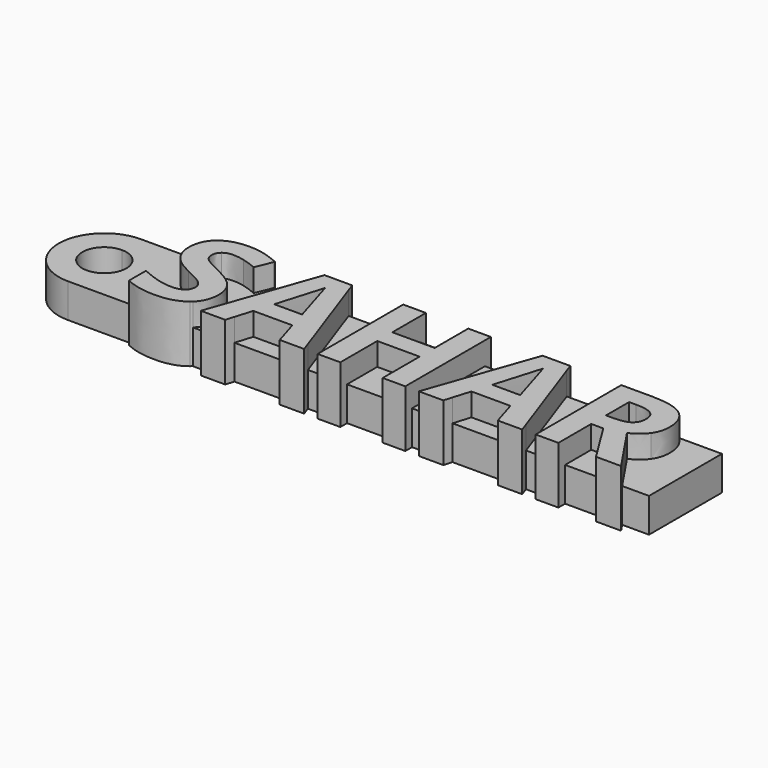
from build123d import *

# Parameters (mm, degrees)
F1_DEPTH = 3
F0_W     = 3.7177148437
F0_H     = 3.0258723958
F0_H_2   = 3.3176996528
F0_W_2   = 1.9914127604
F0_H_3   = 0.735
F0_H_4   = 0.6548502604
F0_W_3   = 1.9852473958
F2_DEPTH = 5


with BuildPart() as f1:
    # F0 (on Top) → F1 (new body)
    with BuildSketch(Plane.XY):
        Polygon((-4.996000434, 4), (-9.2600765244, 4), (-6.4370599594, -4), (-4.996000434, -4), align=None)
    extrude(amount=F1_DEPTH)



with BuildPart() as f1b:
    # F0 (on Top) → F1, piece 2 (new body)
    with BuildSketch(Plane.XY):
        with Locations((-1.1457302517, 2.4870638021)):
            Rectangle(F0_W, F0_H)
    extrude(amount=F1_DEPTH)


with BuildPart() as f1c:
    # F0 (on Top) → F1, piece 3 (new body)
    with BuildSketch(Plane.XY):
        with Locations((-1.1457302517, -2.3411501736)):
            Rectangle(F0_W, F0_H_2)
    extrude(amount=F1_DEPTH)


with BuildPart() as f1d:
    # F0 (on Top) → F1, piece 4 (new body)
    with BuildSketch(Plane.XY):
        Polygon((6.9571927428, 4), (2.698374566, 4), (2.698374566, -4), (4.1446382528, -4), align=None)
    extrude(amount=F1_DEPTH)


with BuildPart() as f1e:
    # F0 (on Top) → F1, piece 5 (new body)
    with BuildSketch(Plane.XY):
        with BuildLine():
            Line((7.2134765625, -0.8302690972), (9.6590711806, -0.8302690972))
            add(Edge.make_bspline(
                [(9.6590711806, -0.8302690972), (8.7157703993, 2.2072005208), (8.5965733507, 2.6058940972)],
                knots=[0, 0, 0, 1, 1, 1], degree=2))
            add(Edge.make_bspline(
                [(8.5965733507, 2.6058940972), (8.4773763021, 3.0045876736), (8.4259982639, 3.2347612847)],
                knots=[0, 0, 0, 1, 1, 1], degree=2))
            add(Edge.make_bspline(
                [(8.4259982639, 3.2347612847), (8.2143207465, 2.4127126736), (7.2134765625, -0.8302690972)],
                knots=[0, 0, 0, 1, 1, 1], degree=2))
        make_face()
    extrude(amount=F1_DEPTH)


with BuildPart() as f1f:
    # F0 (on Top) → F1, piece 6 (new body)
    with BuildSketch(Plane.XY):
        Polygon((6.7120269097, -2.4990277778), (6.2553892208, -4), (10.5924970639, -4), (10.135859375, -2.4990277778), align=None)
    extrude(amount=F1_DEPTH)


with BuildPart() as f1g:
    # F0 (on Top) → F1, piece 7 (new body)
    with BuildSketch(Plane.XY):
        Polygon((14.1433463542, 4), (9.8792702638, 4), (12.7022868288, -4), (14.1433463542, -4), align=None)
    extrude(amount=F1_DEPTH)


with BuildPart() as f1h:
    # F0 (on Top) → F1, piece 8 (new body)
    with BuildSketch(Plane.XY):
        with BuildLine():
            Line((16.1347591146, 3.0230837674), (16.1347591146, 0.4870638021))
            Line((16.1347591146, 0.4870638021), (16.7759570313, 0.4870638021))
            add(Edge.make_bspline(
                [(16.7759570313, 0.4870638021), (17.721312934, 0.4870638021), (18.1703569878, 0.8014973958)],
                knots=[0, 0, 0, 1, 1, 1], degree=2))
            add(Edge.make_bspline(
                [(18.1703569878, 0.8014973958), (18.6194010417, 1.1159309896), (18.6194010417, 1.7900108507)],
                knots=[0, 0, 0, 1, 1, 1], degree=2))
            add(Edge.make_bspline(
                [(18.6194010417, 1.7900108507), (18.6194010417, 2.4579253472), (18.1600813802, 2.7405045573)],
                knots=[0, 0, 0, 1, 1, 1], degree=2))
            add(Edge.make_bspline(
                [(18.1600813802, 2.7405045573), (17.7007617188, 3.0230837674), (16.7389648438, 3.0230837674)],
                knots=[0, 0, 0, 1, 1, 1], degree=2))
            Line((16.7389648438, 3.0230837674), (16.1347591146, 3.0230837674))
        make_face()
    extrude(amount=F1_DEPTH)


with BuildPart() as f1i:
    # F0 (on Top) → F1, piece 9 (new body)
    with BuildSketch(Plane.XY):
        Polygon((16.1347591146, -1.1323719618), (16.1347591146, -4), (18.9778484639, -4), (17.1931467014, -1.1323719618), align=None)
    extrude(amount=F1_DEPTH)


with BuildPart() as f1j:
    # F0 (on Top) → F1, piece 10 (new body)
    with BuildSketch(Plane.XY):
        with BuildLine():
            Line((23.5, 4), (19.6548150577, 4))
            add(Edge.make_bspline(
                [(19.6548150577, 4), (19.683720368, 3.9794058599), (19.7116981337, 3.9581640625)],
                knots=[0.9695102365, 0.9695102365, 0.9695102365, 1, 1, 1], degree=2))
            add(Edge.make_bspline(
                [(19.7116981337, 3.9581640625), (20.6293098958, 3.2614778646), (20.6293098958, 1.8413888889)],
                knots=[0, 0, 0, 1, 1, 1], degree=2))
            add(Edge.make_bspline(
                [(20.6293098958, 1.8413888889), (20.6293098958, 1.0131749132), (20.1741004774, 0.3678667535)],
                knots=[0, 0, 0, 1, 1, 1], degree=2))
            add(Edge.make_bspline(
                [(20.1741004774, 0.3678667535), (19.718891059, -0.2774414063), (18.8824565972, -0.6432530382)],
                knots=[0, 0, 0, 1, 1, 1], degree=2))
            add(Edge.make_bspline(
                [(18.8824565972, -0.6432530382), (20.3815343391, -2.8817014881), (21.1413747251, -4)],
                knots=[0, 0, 0, 0.7068169408, 0.7068169408, 0.7068169408], degree=2))
            Line((21.1413747251, -4), (23.5, -4))
            Line((23.5, -4), (23.5, 4))
        make_face()
    extrude(amount=F1_DEPTH)


with BuildPart() as f1k:
    # F0 (on Top) → F1, piece 11 (new body)
    with BuildSketch(Plane.XY):
        Polygon((-12.4273198785, -2.4990277778), (-12.8839575674, -4), (-8.5468497243, -4), (-9.0034874132, -2.4990277778), align=None)
    extrude(amount=F1_DEPTH)


with BuildPart() as f1l:
    # F0 (on Top) → F1, piece 12 (new body)
    with BuildSketch(Plane.XY):
        with BuildLine():
            Line((-11.9258702257, -0.8302690972), (-9.4802756076, -0.8302690972))
            add(Edge.make_bspline(
                [(-9.4802756076, -0.8302690972), (-10.4235763889, 2.2072005208), (-10.5427734375, 2.6058940972)],
                knots=[0, 0, 0, 1, 1, 1], degree=2))
            add(Edge.make_bspline(
                [(-10.5427734375, 2.6058940972), (-10.6619704861, 3.0045876736), (-10.7133485243, 3.2347612847)],
                knots=[0, 0, 0, 1, 1, 1], degree=2))
            add(Edge.make_bspline(
                [(-10.7133485243, 3.2347612847), (-10.9250260417, 2.4127126736), (-11.9258702257, -0.8302690972)],
                knots=[0, 0, 0, 1, 1, 1], degree=2))
        make_face()
    extrude(amount=F1_DEPTH)


with BuildPart() as f1m:
    # F0 (on Top) → F1, piece 13 (new body)
    with BuildSketch(Plane.XY):
        with BuildLine():
            Line((-12.1821540454, 4), (-15.8715417714, 4))
            Line((-15.8715417714, 4), (-16.459468316, 2.5791775174))
            add(Edge.make_bspline(
                [(-16.459468316, 2.5791775174), (-17.2116427951, 2.8874457465), (-17.7028168403, 3.0097254774)],
                knots=[0, 0, 0, 1, 1, 1], degree=2))
            add(Edge.make_bspline(
                [(-17.7028168403, 3.0097254774), (-18.1939908854, 3.1320052083), (-18.6687239583, 3.1320052083)],
                knots=[0, 0, 0, 1, 1, 1], degree=2))
            add(Edge.make_bspline(
                [(-18.6687239583, 3.1320052083), (-19.2338823785, 3.1320052083), (-19.5359852431, 2.8689496528)],
                knots=[0, 0, 0, 1, 1, 1], degree=2))
            add(Edge.make_bspline(
                [(-19.5359852431, 2.8689496528), (-19.8380881076, 2.6058940972), (-19.8380881076, 2.1825390625)],
                knots=[0, 0, 0, 1, 1, 1], degree=2))
            add(Edge.make_bspline(
                [(-19.8380881076, 2.1825390625), (-19.8380881076, 1.9194835069), (-19.7158083767, 1.723219401)],
                knots=[0, 0, 0, 1, 1, 1], degree=2))
            add(Edge.make_bspline(
                [(-19.7158083767, 1.723219401), (-19.5935286458, 1.5269552951), (-19.327390408, 1.3440494792)],
                knots=[0, 0, 0, 1, 1, 1], degree=2))
            add(Edge.make_bspline(
                [(-19.327390408, 1.3440494792), (-19.0612521701, 1.1611436632), (-18.0665733507, 0.6864105903)],
                knots=[0, 0, 0, 1, 1, 1], degree=2))
            add(Edge.make_bspline(
                [(-18.0665733507, 0.6864105903), (-16.7492404514, 0.0554882812), (-16.2611490885, -0.5764615885)],
                knots=[0, 0, 0, 1, 1, 1], degree=2))
            add(Edge.make_bspline(
                [(-16.2611490885, -0.5764615885), (-15.7730577257, -1.2084114583), (-15.7730577257, -2.1270507813)],
                knots=[0, 0, 0, 1, 1, 1], degree=2))
            add(Edge.make_bspline(
                [(-15.7730577257, -2.1270507813), (-15.7730577257, -3.2882865932), (-16.5359614646, -4)],
                knots=[0, 0, 0, 0.9128349573, 0.9128349573, 0.9128349573], degree=2))
            Line((-16.5359614646, -4), (-14.9947085354, -4))
            Line((-14.9947085354, -4), (-12.1821540454, 4))
        make_face()
    extrude(amount=F1_DEPTH)


with BuildPart() as f1n:
    # F0 (on Top) → F1, piece 14 (new body)
    with BuildSketch(Plane.XY):
        with BuildLine():
            Line((-21.0260885442, 4), (-23.5, 4))
            Line((-23.5, 4), (-23.5, -4))
            Line((-23.5, -4), (-21.8932096354, -4))
            Line((-21.8932096354, -4), (-21.8932096354, -2.4476497396))
            add(Edge.make_bspline(
                [(-21.8932096354, -2.4476497396), (-20.9437434896, -2.8730598958), (-20.2850770399, -3.0456901042)],
                knots=[0, 0, 0, 1, 1, 1], degree=2))
            add(Edge.make_bspline(
                [(-20.2850770399, -3.0456901042), (-19.6264105903, -3.2183203125), (-19.0797482639, -3.2183203125)],
                knots=[0, 0, 0, 1, 1, 1], degree=2))
            add(Edge.make_bspline(
                [(-19.0797482639, -3.2183203125), (-18.4262196181, -3.2183203125), (-18.0758213976, -2.9686230469)],
                knots=[0, 0, 0, 1, 1, 1], degree=2))
            add(Edge.make_bspline(
                [(-18.0758213976, -2.9686230469), (-17.7254231771, -2.7189257813), (-17.7254231771, -2.2236414931)],
                knots=[0, 0, 0, 1, 1, 1], degree=2))
            add(Edge.make_bspline(
                [(-17.7254231771, -2.2236414931), (-17.7254231771, -1.9482552083), (-17.8795572917, -1.7324674479)],
                knots=[0, 0, 0, 1, 1, 1], degree=2))
            add(Edge.make_bspline(
                [(-17.8795572917, -1.7324674479), (-18.0336914062, -1.5166796875), (-18.3327115885, -1.3183604601)],
                knots=[0, 0, 0, 1, 1, 1], degree=2))
            add(Edge.make_bspline(
                [(-18.3327115885, -1.3183604601), (-18.6317317708, -1.1200412326), (-19.5503710938, -0.6823003472)],
                knots=[0, 0, 0, 1, 1, 1], degree=2))
            add(Edge.make_bspline(
                [(-19.5503710938, -0.6823003472), (-20.4094118924, -0.2774414063), (-20.8399598524, 0.0945355903)],
                knots=[0, 0, 0, 1, 1, 1], degree=2))
            add(Edge.make_bspline(
                [(-20.8399598524, 0.0945355903), (-21.2705078125, 0.4665125868), (-21.5273980035, 0.961796875)],
                knots=[0, 0, 0, 1, 1, 1], degree=2))
            add(Edge.make_bspline(
                [(-21.5273980035, 0.961796875), (-21.7842881944, 1.4570811632), (-21.7842881944, 2.1167751736)],
                knots=[0, 0, 0, 1, 1, 1], degree=2))
            add(Edge.make_bspline(
                [(-21.7842881944, 2.1167751736), (-21.7842881944, 3.2986686195), (-21.0260885442, 4)],
                knots=[0, 0, 0, 0.9474408909, 0.9474408909, 0.9474408909], degree=2))
        make_face()
        with BuildLine():
            Line((-23.5, -4), (-23.5, 4))
            Line((-23.5, 4), (-27.5, 4))
            Line((-27.5, 4), (-27.5, 1.9329889635))
            ThreePointArc((-27.5, 1.9329889635), (-26.1331703959, 1.3668296041), (-25.5670110365, 0))
            ThreePointArc((-25.5670110365, 0), (-26.1331703959, -1.3668296041), (-27.5, -1.9329889635))
            Line((-27.5, -1.9329889635), (-27.5, -4))
            Line((-27.5, -4), (-23.5, -4))
        make_face()
        with BuildLine():
            Line((-27.5, 1.9329889635), (-27.5, 4))
            ThreePointArc((-27.5, 4), (-30.3284271247, 2.8284271247), (-31.5, 0))
            ThreePointArc((-31.5, 0), (-30.3284271247, -2.8284271247), (-27.5, -4))
            Line((-27.5, -4), (-27.5, -1.9329889635))
            ThreePointArc((-27.5, -1.9329889635), (-29.4329889635, 0), (-27.5, 1.9329889635))
        make_face()
    extrude(amount=F1_DEPTH)


with BuildPart() as f1_1:
    add(f1.part)

    add(f1b.part)  # F2 merges F1b

    add(f1c.part)  # F2 merges F1c

    add(f1d.part)  # F2 merges F1d

    add(f1e.part)  # F2 merges F1e

    add(f1f.part)  # F2 merges F1f

    add(f1g.part)  # F2 merges F1g

    add(f1h.part)  # F2 merges F1h

    add(f1i.part)  # F2 merges F1i

    add(f1j.part)  # F2 merges F1j

    add(f1k.part)  # F2 merges F1k

    add(f1l.part)  # F2 merges F1l

    add(f1m.part)  # F2 merges F1m

    add(f1n.part)  # F2 merges F1n
    # F0 (on Top) → F2 (join)
    with BuildSketch(Plane.XY):
        with BuildLine():
            Line((-15.8715417714, 4), (-21.0260885442, 4))
            add(Edge.make_bspline(
                [(-21.7842881944, 2.1167751736), (-21.7842881944, 3.2986686195), (-21.0260885442, 4)],
                knots=[0, 0, 0, 0.9474408909, 0.9474408909, 0.9474408909], degree=2))
            add(Edge.make_bspline(
                [(-21.5273980035, 0.961796875), (-21.7842881944, 1.4570811632), (-21.7842881944, 2.1167751736)],
                knots=[0, 0, 0, 1, 1, 1], degree=2))
            add(Edge.make_bspline(
                [(-20.8399598524, 0.0945355903), (-21.2705078125, 0.4665125868), (-21.5273980035, 0.961796875)],
                knots=[0, 0, 0, 1, 1, 1], degree=2))
            add(Edge.make_bspline(
                [(-19.5503710938, -0.6823003472), (-20.4094118924, -0.2774414063), (-20.8399598524, 0.0945355903)],
                knots=[0, 0, 0, 1, 1, 1], degree=2))
            add(Edge.make_bspline(
                [(-18.3327115885, -1.3183604601), (-18.6317317708, -1.1200412326), (-19.5503710938, -0.6823003472)],
                knots=[0, 0, 0, 1, 1, 1], degree=2))
            add(Edge.make_bspline(
                [(-17.8795572917, -1.7324674479), (-18.0336914062, -1.5166796875), (-18.3327115885, -1.3183604601)],
                knots=[0, 0, 0, 1, 1, 1], degree=2))
            add(Edge.make_bspline(
                [(-17.7254231771, -2.2236414931), (-17.7254231771, -1.9482552083), (-17.8795572917, -1.7324674479)],
                knots=[0, 0, 0, 1, 1, 1], degree=2))
            add(Edge.make_bspline(
                [(-18.0758213976, -2.9686230469), (-17.7254231771, -2.7189257813), (-17.7254231771, -2.2236414931)],
                knots=[0, 0, 0, 1, 1, 1], degree=2))
            add(Edge.make_bspline(
                [(-19.0797482639, -3.2183203125), (-18.4262196181, -3.2183203125), (-18.0758213976, -2.9686230469)],
                knots=[0, 0, 0, 1, 1, 1], degree=2))
            add(Edge.make_bspline(
                [(-20.2850770399, -3.0456901042), (-19.6264105903, -3.2183203125), (-19.0797482639, -3.2183203125)],
                knots=[0, 0, 0, 1, 1, 1], degree=2))
            add(Edge.make_bspline(
                [(-21.8932096354, -2.4476497396), (-20.9437434896, -2.8730598958), (-20.2850770399, -3.0456901042)],
                knots=[0, 0, 0, 1, 1, 1], degree=2))
            Line((-21.8932096354, -2.4476497396), (-21.8932096354, -4))
            Line((-21.8932096354, -4), (-16.5359614646, -4))
            add(Edge.make_bspline(
                [(-15.7730577257, -2.1270507813), (-15.7730577257, -3.2882865932), (-16.5359614646, -4)],
                knots=[0, 0, 0, 0.9128349573, 0.9128349573, 0.9128349573], degree=2))
            add(Edge.make_bspline(
                [(-16.2611490885, -0.5764615885), (-15.7730577257, -1.2084114583), (-15.7730577257, -2.1270507813)],
                knots=[0, 0, 0, 1, 1, 1], degree=2))
            add(Edge.make_bspline(
                [(-18.0665733507, 0.6864105903), (-16.7492404514, 0.0554882812), (-16.2611490885, -0.5764615885)],
                knots=[0, 0, 0, 1, 1, 1], degree=2))
            add(Edge.make_bspline(
                [(-19.327390408, 1.3440494792), (-19.0612521701, 1.1611436632), (-18.0665733507, 0.6864105903)],
                knots=[0, 0, 0, 1, 1, 1], degree=2))
            add(Edge.make_bspline(
                [(-19.7158083767, 1.723219401), (-19.5935286458, 1.5269552951), (-19.327390408, 1.3440494792)],
                knots=[0, 0, 0, 1, 1, 1], degree=2))
            add(Edge.make_bspline(
                [(-19.8380881076, 2.1825390625), (-19.8380881076, 1.9194835069), (-19.7158083767, 1.723219401)],
                knots=[0, 0, 0, 1, 1, 1], degree=2))
            add(Edge.make_bspline(
                [(-19.5359852431, 2.8689496528), (-19.8380881076, 2.6058940972), (-19.8380881076, 2.1825390625)],
                knots=[0, 0, 0, 1, 1, 1], degree=2))
            add(Edge.make_bspline(
                [(-18.6687239583, 3.1320052083), (-19.2338823785, 3.1320052083), (-19.5359852431, 2.8689496528)],
                knots=[0, 0, 0, 1, 1, 1], degree=2))
            add(Edge.make_bspline(
                [(-17.7028168403, 3.0097254774), (-18.1939908854, 3.1320052083), (-18.6687239583, 3.1320052083)],
                knots=[0, 0, 0, 1, 1, 1], degree=2))
            add(Edge.make_bspline(
                [(-16.459468316, 2.5791775174), (-17.2116427951, 2.8874457465), (-17.7028168403, 3.0097254774)],
                knots=[0, 0, 0, 1, 1, 1], degree=2))
            Line((-16.459468316, 2.5791775174), (-15.8715417714, 4))
        make_face()
        with BuildLine():
            add(Edge.make_bspline(
                [(-21.0260885442, 4), (-20.9840275581, 4.0389062293), (-20.9396332465, 4.0763335503)],
                knots=[0.9474408909, 0.9474408909, 0.9474408909, 1, 1, 1], degree=2))
            Line((-21.0260885442, 4), (-15.8715417714, 4))
            Line((-15.8715417714, 4), (-15.8182703993, 4.1287391493))
            add(Edge.make_bspline(
                [(-17.2085601128, 4.6158029514), (-16.5437282986, 4.4431727431), (-15.8182703993, 4.1287391493)],
                knots=[0, 0, 0, 1, 1, 1], degree=2))
            add(Edge.make_bspline(
                [(-18.605015191, 4.7884331597), (-17.8733919271, 4.7884331597), (-17.2085601128, 4.6158029514)],
                knots=[0, 0, 0, 1, 1, 1], degree=2))
            add(Edge.make_bspline(
                [(-20.9396332465, 4.0763335503), (-20.0949782986, 4.7884331597), (-18.605015191, 4.7884331597)],
                knots=[0, 0, 0, 1, 1, 1], degree=2))
        make_face()
        with BuildLine():
            Line((-16.5359614646, -4), (-21.8932096354, -4))
            Line((-21.8932096354, -4), (-21.8932096354, -4.2972591146))
            add(Edge.make_bspline(
                [(-19.2338823785, -4.8644726563), (-20.7382313368, -4.8644726563), (-21.8932096354, -4.2972591146)],
                knots=[0, 0, 0, 1, 1, 1], degree=2))
            add(Edge.make_bspline(
                [(-16.6886143663, -4.1318218316), (-17.6041710069, -4.8644726563), (-19.2338823785, -4.8644726563)],
                knots=[0, 0, 0, 1, 1, 1], degree=2))
            add(Edge.make_bspline(
                [(-16.5359614646, -4), (-16.6088098326, -4.0679602912), (-16.6886143663, -4.1318218316)],
                knots=[0.9128349573, 0.9128349573, 0.9128349573, 1, 1, 1], degree=2))
        make_face()
        Polygon((-12.8839575674, -4), (-14.9947085354, -4), (-15.2531119792, -4.735), (-13.1075651042, -4.735), align=None)
        Polygon((-9.2600765244, 4), (-12.1821540454, 4), (-14.9947085354, -4), (-12.8839575674, -4), (-12.4273198785, -2.4990277778), (-9.0034874132, -2.4990277778), (-8.5468497243, -4), (-6.4370599594, -4), align=None)
        with BuildLine():
            add(Edge.make_bspline(
                [(-9.4802756076, -0.8302690972), (-10.4235763889, 2.2072005208), (-10.5427734375, 2.6058940972)],
                knots=[0, 0, 0, 1, 1, 1], degree=2))
            Line((-9.4802756076, -0.8302690972), (-11.9258702257, -0.8302690972))
            add(Edge.make_bspline(
                [(-10.7133485243, 3.2347612847), (-10.9250260417, 2.4127126736), (-11.9258702257, -0.8302690972)],
                knots=[0, 0, 0, 1, 1, 1], degree=2))
            add(Edge.make_bspline(
                [(-10.5427734375, 2.6058940972), (-10.6619704861, 3.0045876736), (-10.7133485243, 3.2347612847)],
                knots=[0, 0, 0, 1, 1, 1], degree=2))
        make_face(mode=Mode.SUBTRACT)
        Polygon((-11.9382009549, 4.6938975694), (-12.1821540454, 4), (-9.2600765244, 4), (-9.504937066, 4.6938975694), align=None)
        Polygon((-6.1776953125, -4.735), (-6.4370599594, -4), (-8.5468497243, -4), (-8.3232421875, -4.735), align=None)
        with Locations((-4.0002940538, -4.3675)):
            Rectangle(F0_W_2, F0_H_3)
        Polygon((-3.0045876736, 4), (-4.996000434, 4), (-4.996000434, -4), (-3.0045876736, -4), (-3.0045876736, -0.6823003472), (0.7131271701, -0.6823003472), (0.7131271701, -4), (2.698374566, -4), (2.698374566, 4), (0.7131271701, 4), (0.7131271701, 0.9741276042), (-3.0045876736, 0.9741276042), align=None)
        with Locations((-4.0002940538, 4.3274251302)):
            Rectangle(F0_W_2, F0_H_4)
        with Locations((1.7057508681, 4.3274251302)):
            Rectangle(F0_W_3, F0_H_4)
        with Locations((1.7057508681, -4.3675)):
            Rectangle(F0_W_3, F0_H_3)
        Polygon((6.2553892208, -4), (4.1446382528, -4), (3.886234809, -4.735), (6.031781684, -4.735), align=None)
        Polygon((9.8792702638, 4), (6.9571927428, 4), (4.1446382528, -4), (6.2553892208, -4), (6.7120269097, -2.4990277778), (10.135859375, -2.4990277778), (10.5924970639, -4), (12.7022868288, -4), align=None)
        with BuildLine():
            add(Edge.make_bspline(
                [(9.6590711806, -0.8302690972), (8.7157703993, 2.2072005208), (8.5965733507, 2.6058940972)],
                knots=[0, 0, 0, 1, 1, 1], degree=2))
            Line((9.6590711806, -0.8302690972), (7.2134765625, -0.8302690972))
            add(Edge.make_bspline(
                [(8.4259982639, 3.2347612847), (8.2143207465, 2.4127126736), (7.2134765625, -0.8302690972)],
                knots=[0, 0, 0, 1, 1, 1], degree=2))
            add(Edge.make_bspline(
                [(8.5965733507, 2.6058940972), (8.4773763021, 3.0045876736), (8.4259982639, 3.2347612847)],
                knots=[0, 0, 0, 1, 1, 1], degree=2))
        make_face(mode=Mode.SUBTRACT)
        Polygon((7.2011458333, 4.6938975694), (6.9571927428, 4), (9.8792702638, 4), (9.6344097222, 4.6938975694), align=None)
        Polygon((12.9616514757, -4.735), (12.7022868288, -4), (10.5924970639, -4), (10.8161046007, -4.735), align=None)
        with Locations((15.1390527344, -4.3675)):
            Rectangle(F0_W_2, F0_H_3)
        with BuildLine():
            Line((19.6548150577, 4), (14.1433463542, 4))
            Line((14.1433463542, 4), (14.1433463542, -4))
            Line((14.1433463542, -4), (16.1347591146, -4))
            Line((16.1347591146, -4), (16.1347591146, -1.1323719618))
            Line((16.1347591146, -1.1323719618), (17.1931467014, -1.1323719618))
            Line((17.1931467014, -1.1323719618), (18.9778484639, -4))
            Line((18.9778484639, -4), (21.1413747251, -4))
            add(Edge.make_bspline(
                [(18.8824565972, -0.6432530382), (20.3815343391, -2.8817014881), (21.1413747251, -4)],
                knots=[0, 0, 0, 0.7068169408, 0.7068169408, 0.7068169408], degree=2))
            add(Edge.make_bspline(
                [(20.1741004774, 0.3678667535), (19.718891059, -0.2774414063), (18.8824565972, -0.6432530382)],
                knots=[0, 0, 0, 1, 1, 1], degree=2))
            add(Edge.make_bspline(
                [(20.6293098958, 1.8413888889), (20.6293098958, 1.0131749132), (20.1741004774, 0.3678667535)],
                knots=[0, 0, 0, 1, 1, 1], degree=2))
            add(Edge.make_bspline(
                [(19.7116981337, 3.9581640625), (20.6293098958, 3.2614778646), (20.6293098958, 1.8413888889)],
                knots=[0, 0, 0, 1, 1, 1], degree=2))
            add(Edge.make_bspline(
                [(19.6548150577, 4), (19.683720368, 3.9794058599), (19.7116981337, 3.9581640625)],
                knots=[0.9695102365, 0.9695102365, 0.9695102365, 1, 1, 1], degree=2))
        make_face()
        with BuildLine():
            Line((16.7759570313, 0.4870638021), (16.1347591146, 0.4870638021))
            Line((16.1347591146, 0.4870638021), (16.1347591146, 3.0230837674))
            Line((16.1347591146, 3.0230837674), (16.7389648438, 3.0230837674))
            add(Edge.make_bspline(
                [(18.1600813802, 2.7405045573), (17.7007617188, 3.0230837674), (16.7389648438, 3.0230837674)],
                knots=[0, 0, 0, 1, 1, 1], degree=2))
            add(Edge.make_bspline(
                [(18.6194010417, 1.7900108507), (18.6194010417, 2.4579253472), (18.1600813802, 2.7405045573)],
                knots=[0, 0, 0, 1, 1, 1], degree=2))
            add(Edge.make_bspline(
                [(18.1703569878, 0.8014973958), (18.6194010417, 1.1159309896), (18.6194010417, 1.7900108507)],
                knots=[0, 0, 0, 1, 1, 1], degree=2))
            add(Edge.make_bspline(
                [(16.7759570313, 0.4870638021), (17.721312934, 0.4870638021), (18.1703569878, 0.8014973958)],
                knots=[0, 0, 0, 1, 1, 1], degree=2))
        make_face(mode=Mode.SUBTRACT)
        with BuildLine():
            Line((14.1433463542, 4.6548502604), (14.1433463542, 4))
            Line((14.1433463542, 4), (19.6548150577, 4))
            add(Edge.make_bspline(
                [(16.8787131076, 4.6548502604), (18.7356870936, 4.6548502604), (19.6548150577, 4)],
                knots=[0, 0, 0, 0.9695102365, 0.9695102365, 0.9695102365], degree=2))
            Line((16.8787131076, 4.6548502604), (14.1433463542, 4.6548502604))
        make_face()
        with BuildLine():
            Line((21.1413747251, -4), (18.9778484639, -4))
            Line((18.9778484639, -4), (19.4352842882, -4.735))
            Line((19.4352842882, -4.735), (21.6445399306, -4.735))
            add(Edge.make_bspline(
                [(21.1413747251, -4), (21.4565515638, -4.4638629325), (21.6445399306, -4.735)],
                knots=[0.7068169408, 0.7068169408, 0.7068169408, 1, 1, 1], degree=2))
        make_face()
    extrude(amount=F2_DEPTH)


solid = f1_1.part
